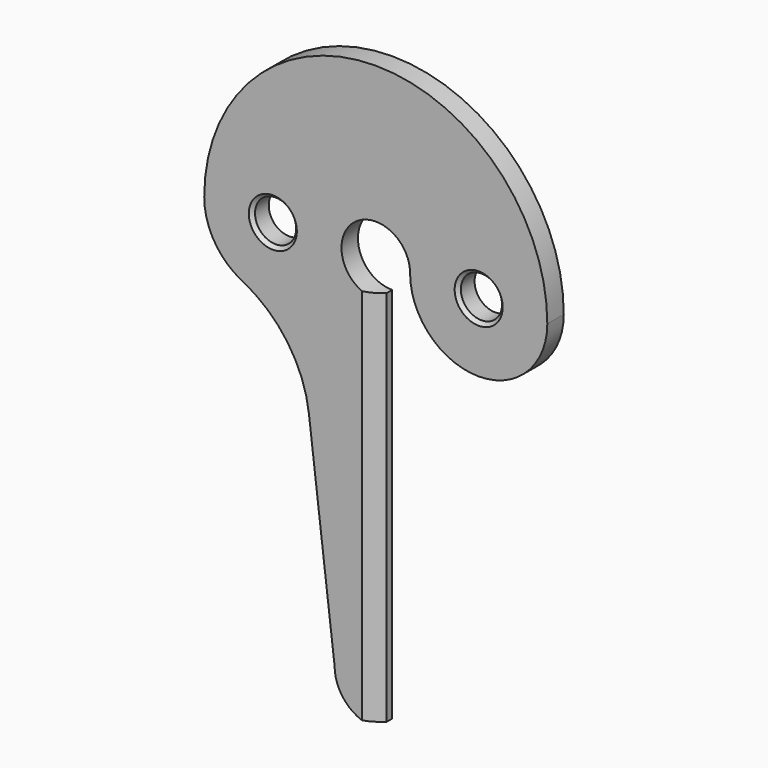
from build123d import *

# Parameters (mm, degrees)
F0_R     = 3
F1_DEPTH = 3
F2_SIZE  = 2
F3_SIZE  = 0.5


with BuildPart() as f1:
    # F0 (on Front) → F1 (new body)
    with BuildSketch(Plane.XZ):
        with BuildLine():
            ThreePointArc((0, -5), (-3.535534, 3.535534), (5, 0))
            ThreePointArc((5, 0), (15, -10), (25, 0))
            ThreePointArc((25, 0), (0, 25), (-25, 0))
            ThreePointArc((-25, 0), (-23.515691, -5.242423), (-19.5034, -8.928571))
            ThreePointArc((-19.5034, -8.928571), (-12.871812, -14.665594), (-9.737763, -22.855169))
            Line((-9.737763, -22.855169), (-9.676577, -23.364999))
            Line((-9.676577, -23.364999), (-6, -54))
            ThreePointArc((-6, -54), (-4.242641, -58.242641), (0, -60))
            Line((0, -60), (0, -5))
        make_face()
        with Locations((-15, 0)):
            Circle(F0_R, mode=Mode.SUBTRACT)
        with Locations((15, 0)):
            Circle(F0_R, mode=Mode.SUBTRACT)
    extrude(amount=F1_DEPTH)

    # F2
    f2_edges = [f1.edges().sort_by_distance(p)[0] for p in [
        (0, -3, -32.5),
    ]]
    chamfer(f2_edges, length=F2_SIZE)

    # F3
    f3_edges = [f1.edges().sort_by_distance(p)[0] for p in [
        (-18, -3, 0),
        (12, -3, 0),
    ]]
    chamfer(f3_edges, length=F3_SIZE)


solid = f1.part
